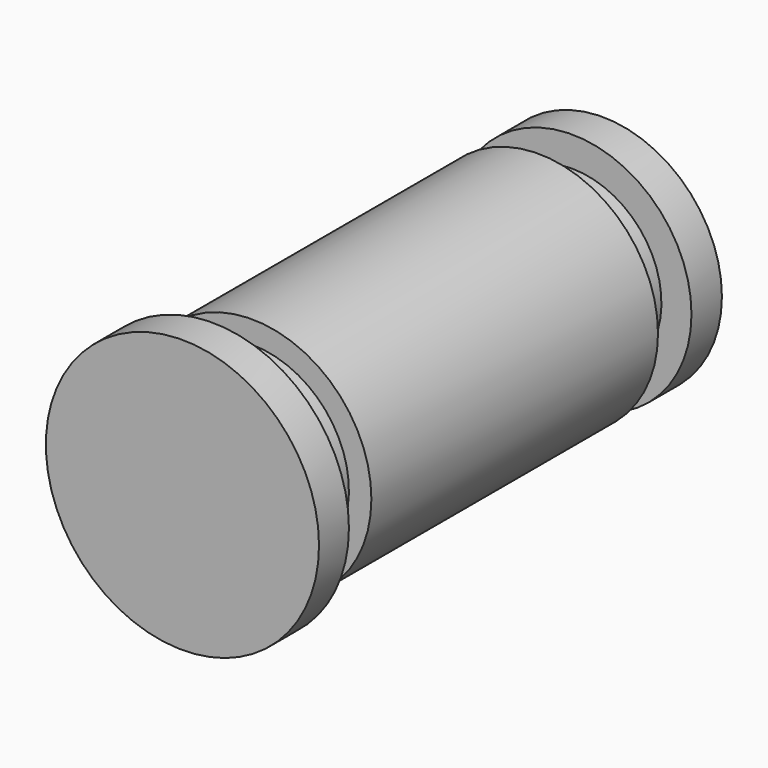
from build123d import *

# Parameters (mm, degrees)
F0_R      = 157
F1_DEPTH  = 640
F2_R      = 179.5
F3_DEPTH  = 50
F7_R      = 17.75
F8_DEPTH  = 39.25
F15_DEPTH = 237.6


with BuildPart() as f1:
    # F0 (on Front) → F1 (new body)
    with BuildSketch(Plane.XZ):
        Circle(F0_R)
    extrude(amount=F1_DEPTH)

    # F2 (on face) → F3 (join)
    with BuildSketch(Plane.XZ.offset(640)):
        Circle(F2_R)
    extrude(amount=F3_DEPTH)

    # F4 (on Right) → F5 (revolve, cut)
    with BuildSketch(Plane.YZ):
        Polygon((-50, 117.5), (-50, 175.9304246068), (-105, 176.5382785822), (-105, 117.5), align=None)
        Polygon((-575.8635377884, 127.5), (-575.8635377884, 204.0864402056), (-640.8635377884, 217.1958261728), (-640.8635377884, 127.5), align=None)
    revolve(axis=Axis((0, -347.832351923, 0), (0, -1, 0)), mode=Mode.SUBTRACT)

    # F7 (on offset) → F8 (cut)
    with BuildSketch(Plane.YZ.offset(-157)):
        with Locations((-529, 0)):
            Circle(F7_R)
    extrude(amount=F8_DEPTH, mode=Mode.SUBTRACT)

    # F9 (on Top) → F10 (revolve, cut)
    with BuildSketch(Plane.XY):
        Polygon((-188.8352518344, -271.3451443148), (-138.7522213355, -529), (-120.67, -529), (-171.4113693282, -267.9582846469), align=None)
    revolve(axis=Axis((-163.4645671703, -401.8660019914, 0), (-0.1908089954, 0.9816271834, 0)), mode=Mode.SUBTRACT)

    # F14 (on offset) → F15 (cut)
    with BuildSketch(Plane(origin=(93.6887526256, -481.9868485712, 0), x_dir=(-0.9816271834, -0.1908089954, 0), z_dir=(-0.1908089954, 0.9816271834, 0))):
        with BuildLine():
            Line((236.8998006375, 17.7467060058), (237.5836893528, 17.7467060058))
            ThreePointArc((237.5836893528, 17.7467060058), (237.2417449951, 17.75), (236.8998006375, 17.7467060058))
        make_face()
        with BuildLine():
            Line((285.3791117668, 17.7467060058), (237.5836893528, 17.7467060058))
            Line((237.5836893528, 17.7467060058), (236.8998006375, 17.7467060058))
            ThreePointArc((236.8998006375, 17.7467060058), (219.4925685128, -0.1709801115), (237.2417449951, -17.75))
            Line((237.2417449951, -17.75), (285.3791117668, -17.75))
            Line((285.3791117668, -17.75), (285.3791117668, 17.7467060058))
        make_face()
    extrude(amount=F15_DEPTH, mode=Mode.SUBTRACT)


solid = f1.part
